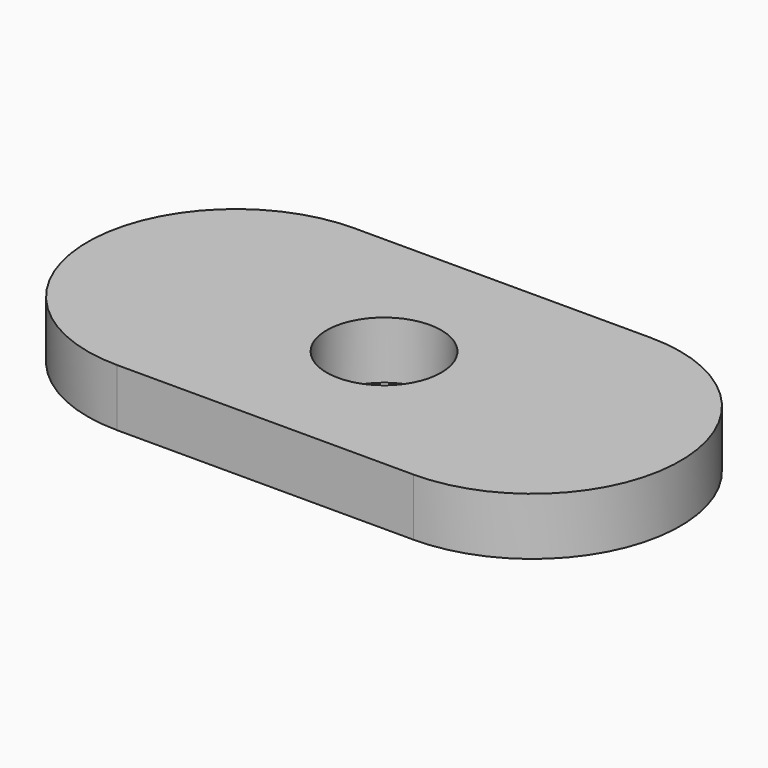
from build123d import *

# Parameters (mm, degrees)
F0_W     = 15.5
F0_H     = 15.5
F0_R     = 3
F1_DEPTH = 3


with BuildPart() as f1:
    # F0 (on Top) → F1 (new body)
    with BuildSketch(Plane.XY):
        Rectangle(F0_W, F0_H)
        Circle(F0_R, mode=Mode.SUBTRACT)
        with BuildLine():
            ThreePointArc((7.75, -7.75), (15.5, 0), (7.75, 7.75))
            Line((7.75, 7.75), (7.75, -7.75))
        make_face()
        with BuildLine():
            Line((-7.75, -7.75), (-7.75, 7.75))
            ThreePointArc((-7.75, 7.75), (-15.5, 0), (-7.75, -7.75))
        make_face()
    extrude(amount=F1_DEPTH)


solid = f1.part
